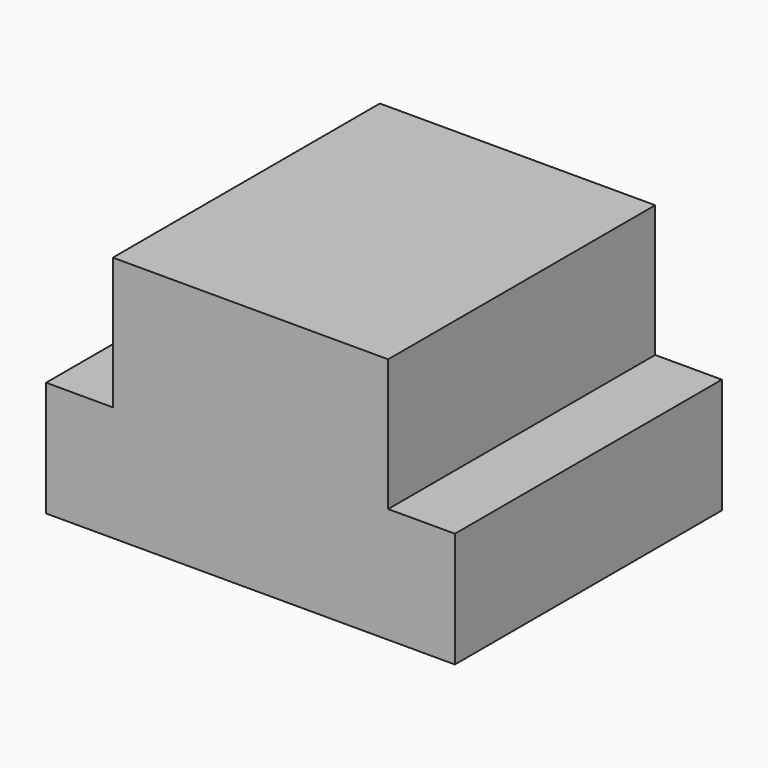
from build123d import *

# Parameters (mm, degrees)
F0_W          = 41.91
F0_H          = 20.066001
F1_DEPTH      = 25.4
F1_DEPTH_BACK = 25.4


with BuildPart() as f1:
    # F0 (on Front) → F1 (new body, two sides)
    with BuildSketch(Plane.XZ) as f1_sk:
        Polygon((-20.955, -10.287001), (-31.115003, -10.287001), (-31.115003, -27.813001), (31.115003, -27.813001), (31.115003, -10.287001), (20.955, -10.287001), align=None)
        with Locations((0, -0.254001)):
            Rectangle(F0_W, F0_H)
    extrude(amount=F1_DEPTH)
    extrude(f1_sk.sketch, amount=-F1_DEPTH_BACK)


solid = f1.part
